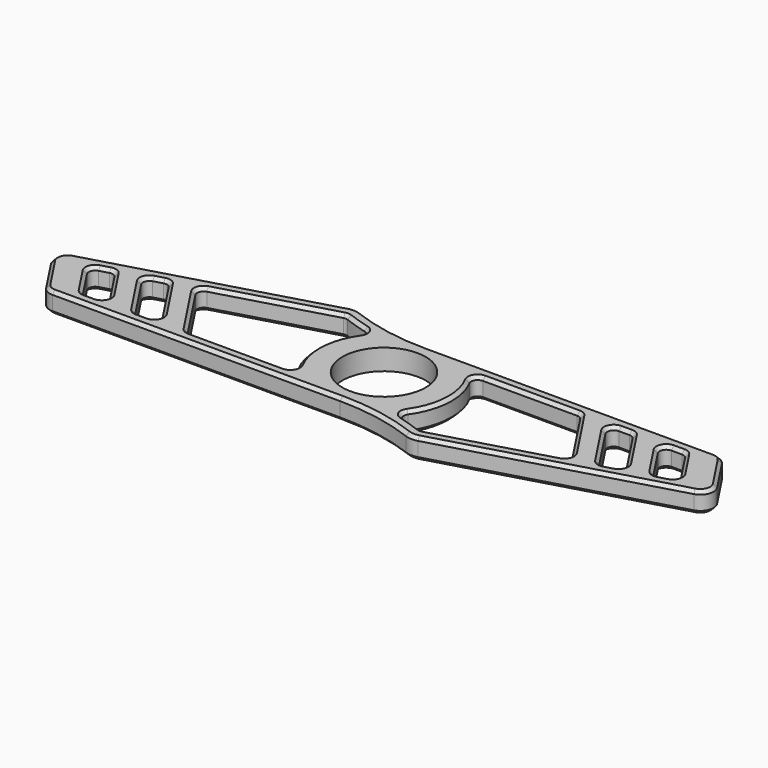
from build123d import *

# Parameters (mm, degrees)
F0_R     = 6.35
F1_DEPTH = 3.175
F2_SIZE  = 0.5


with BuildPart() as f1:
    # F0 (on Top) → F1 (new body)
    with BuildSketch(Plane.XY):
        with BuildLine():
            Line((43.922754, 8.35), (0, 8.35))
            ThreePointArc((0, 8.35), (-5.971094, 8.891004), (-11.747716, 10.496397))
            ThreePointArc((-11.747716, 10.496397), (-12.685416, 10.687691), (-13.635646, 10.573951))
            Line((-13.635646, 10.573951), (-47.886282, 0.750369))
            ThreePointArc((-47.886282, 0.750369), (-49.210589, -0.478048), (-49.004885, -2.272619))
            Line((-49.004885, -2.272619), (-45.592754, -7.4505))
            ThreePointArc((-45.592754, -7.4505), (-44.871174, -8.110824), (-43.922754, -8.35))
            Line((-43.922754, -8.35), (0, -8.35))
            ThreePointArc((0, -8.35), (5.971094, -8.891004), (11.747716, -10.496397))
            ThreePointArc((11.747716, -10.496397), (12.685416, -10.687691), (13.635646, -10.573951))
            Line((13.635646, -10.573951), (47.886282, -0.750369))
            ThreePointArc((47.886282, -0.750369), (49.210589, 0.478048), (49.004885, 2.272619))
            Line((49.004885, 2.272619), (45.592754, 7.4505))
            ThreePointArc((45.592754, 7.4505), (44.871174, 8.110824), (43.922754, 8.35))
        make_face()
        with BuildLine():
            Line((-41.043269, -0.097151), (-37.944341, -4.79975))
            ThreePointArc((-37.944341, -4.79975), (-37.898929, -5.82421), (-38.779341, -6.35))
            Line((-38.779341, -6.35), (-40.384132, -6.35))
            ThreePointArc((-40.384132, -6.35), (-40.858341, -6.230412), (-41.219132, -5.90025))
            Line((-41.219132, -5.90025), (-44.062961, -1.584762))
            ThreePointArc((-44.062961, -1.584762), (-44.165813, -0.687476), (-43.503659, -0.073268))
            Line((-43.503659, -0.073268), (-42.153968, 0.313843))
            ThreePointArc((-42.153968, 0.313843), (-41.531234, 0.290451), (-41.043269, -0.097151))
        make_face(mode=Mode.SUBTRACT)
        with BuildLine():
            ThreePointArc((-32.384132, -6.35), (-32.858341, -6.230412), (-33.219132, -5.90025))
            Line((-33.219132, -5.90025), (-37.334649, 0.345016))
            ThreePointArc((-37.334649, 0.345016), (-37.437501, 1.242301), (-36.775348, 1.85651))
            Line((-36.775348, 1.85651), (-35.425657, 2.243621))
            ThreePointArc((-35.425657, 2.243621), (-34.802923, 2.220229), (-34.314958, 1.832627))
            Line((-34.314958, 1.832627), (-29.944341, -4.79975))
            ThreePointArc((-29.944341, -4.79975), (-29.898929, -5.82421), (-30.779341, -6.35))
            Line((-30.779341, -6.35), (-32.384132, -6.35))
        make_face(mode=Mode.SUBTRACT)
        Circle(F0_R, mode=Mode.SUBTRACT)
        with BuildLine():
            ThreePointArc((24.384132, 6.35), (24.858341, 6.230412), (25.219132, 5.90025))
            Line((25.219132, 5.90025), (30.606338, -2.274794))
            ThreePointArc((30.606338, -2.274794), (30.70919, -3.172079), (30.047037, -3.786288))
            Line((30.047037, -3.786288), (13.084248, -8.651463))
            ThreePointArc((13.084248, -8.651463), (12.767505, -8.689376), (12.454938, -8.625612))
            ThreePointArc((12.454938, -8.625612), (10.746585, -8.029479), (9.009873, -7.521863))
            ThreePointArc((9.009873, -7.521863), (8.325686, -6.896341), (8.449316, -5.977589))
            ThreePointArc((8.449316, -5.977589), (10.329831, -0.645831), (9.128057, 4.878634))
            ThreePointArc((9.128057, 4.878634), (9.152275, 5.864118), (10.009995, 6.35))
            Line((10.009995, 6.35), (24.384132, 6.35))
        make_face(mode=Mode.SUBTRACT)
        with BuildLine():
            ThreePointArc((-9.009873, 7.521863), (-8.325686, 6.896341), (-8.449316, 5.977589))
            ThreePointArc((-8.449316, 5.977589), (-10.329831, 0.645831), (-9.128057, -4.878634))
            ThreePointArc((-9.128057, -4.878634), (-9.152275, -5.864118), (-10.009995, -6.35))
            Line((-10.009995, -6.35), (-24.384132, -6.35))
            ThreePointArc((-24.384132, -6.35), (-24.858341, -6.230412), (-25.219132, -5.90025))
            Line((-25.219132, -5.90025), (-30.606338, 2.274794))
            ThreePointArc((-30.606338, 2.274794), (-30.70919, 3.172079), (-30.047037, 3.786288))
            Line((-30.047037, 3.786288), (-13.084248, 8.651463))
            ThreePointArc((-13.084248, 8.651463), (-12.767505, 8.689376), (-12.454938, 8.625612))
            ThreePointArc((-12.454938, 8.625612), (-10.746585, 8.029479), (-9.009873, 7.521863))
        make_face(mode=Mode.SUBTRACT)
        with BuildLine():
            ThreePointArc((32.384132, 6.35), (32.858341, 6.230412), (33.219132, 5.90025))
            Line((33.219132, 5.90025), (37.334649, -0.345016))
            ThreePointArc((37.334649, -0.345016), (37.437501, -1.242301), (36.775348, -1.85651))
            Line((36.775348, -1.85651), (35.425657, -2.243621))
            ThreePointArc((35.425657, -2.243621), (34.802923, -2.220229), (34.314958, -1.832627))
            Line((34.314958, -1.832627), (29.944341, 4.79975))
            ThreePointArc((29.944341, 4.79975), (29.898929, 5.82421), (30.779341, 6.35))
            Line((30.779341, 6.35), (32.384132, 6.35))
        make_face(mode=Mode.SUBTRACT)
        with BuildLine():
            ThreePointArc((40.384132, 6.35), (40.858341, 6.230412), (41.219132, 5.90025))
            Line((41.219132, 5.90025), (44.062961, 1.584762))
            ThreePointArc((44.062961, 1.584762), (44.165813, 0.687476), (43.503659, 0.073268))
            Line((43.503659, 0.073268), (42.153968, -0.313843))
            ThreePointArc((42.153968, -0.313843), (41.531234, -0.290451), (41.043269, 0.097151))
            Line((41.043269, 0.097151), (37.944341, 4.79975))
            ThreePointArc((37.944341, 4.79975), (37.898929, 5.82421), (38.779341, 6.35))
            Line((38.779341, 6.35), (40.384132, 6.35))
        make_face(mode=Mode.SUBTRACT)
    extrude(amount=F1_DEPTH)

    # F2
    f2_edges = [f1.edges().sort_by_distance(p)[0] for p in [
        (21.961377, 8.35, 0),
        (-21.961377, -8.35, 3.175),
        (-21.565642, 6.218876, 3.175),
        (-32.12965, -1.483561, 3.175),
        (-39.493805, -2.44845, 3.175),
        (17.197063, 6.35, 3.175),
        (32.12965, 1.483561, 3.175),
        (39.493805, 2.44845, 3.175),
        (42.641046, 3.742506, 0),
        (35.27689, 2.777617, 0),
        (17.197063, 6.35, 0),
        (-21.565642, 6.218876, 0),
        (-29.898929, -5.82421, 0),
        (-37.898929, -5.82421, 0),
    ]]
    chamfer(f2_edges, length=F2_SIZE)


solid = f1.part
